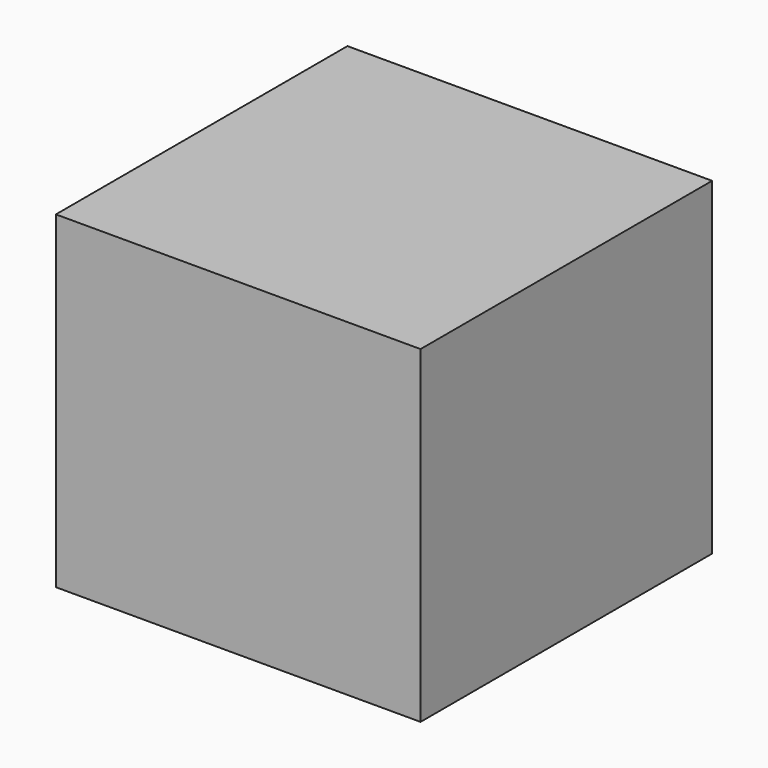
from build123d import *

# Parameters (mm, degrees)
F0_W     = 25.4142619669
F0_H     = 22.8735040873
F0_W_2   = 16.2915550172
F0_H_2   = 12.3447924852
F1_DEPTH = 25.4


with BuildPart() as f1:
    # F0 (on Front) → F1 (new body)
    with BuildSketch(Plane.XZ):
        with Locations((-51.6521539539, 41.1073314026)):
            Rectangle(F0_W, F0_H)
        with Locations((-50.9393382818, 40.0535129011)):
            Rectangle(F0_W_2, F0_H_2, mode=Mode.SUBTRACT)
        with Locations((-50.9393382818, 40.0535129011)):
            Rectangle(F0_W_2, F0_H_2)
    extrude(amount=F1_DEPTH)


solid = f1.part
